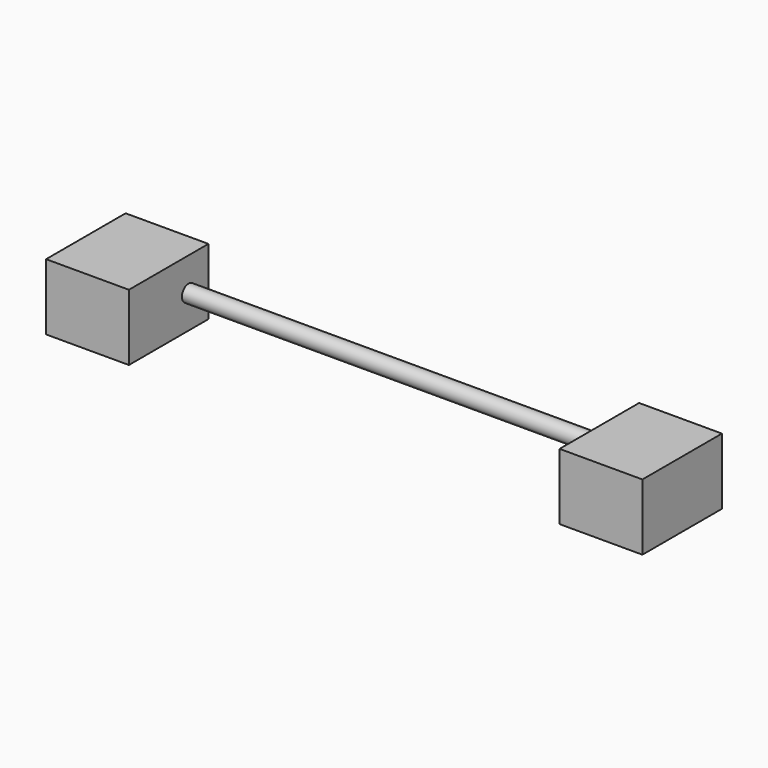
from build123d import *

# Parameters (mm, degrees)
F0_W     = 50
F0_H     = 60
F1_DEPTH = 40
F3_START = -50
F2_R     = 5
F3_DEPTH = 260


with BuildPart() as f1:
    # F0 (on Top) → F1 (new body)
    with BuildSketch(Plane.XY):
        with Locations((-125, -30)):
            Rectangle(F0_W, F0_H)
    extrude(amount=F1_DEPTH)



with BuildPart() as f1b:
    # F0 (on Top) → F1, piece 2 (new body)
    with BuildSketch(Plane.XY):
        with Locations((185, -30)):
            Rectangle(F0_W, F0_H)
    extrude(amount=F1_DEPTH)


with BuildPart() as f1_1:
    add(f1.part)

    add(f1b.part)  # F3 merges F1b
    # F2 (on face) → F3 (join)
    with BuildSketch(Plane.YZ.offset(210).offset(F3_START)):
        with Locations((-15, 20)):
            Circle(F2_R)
    extrude(amount=-F3_DEPTH)


solid = f1_1.part
